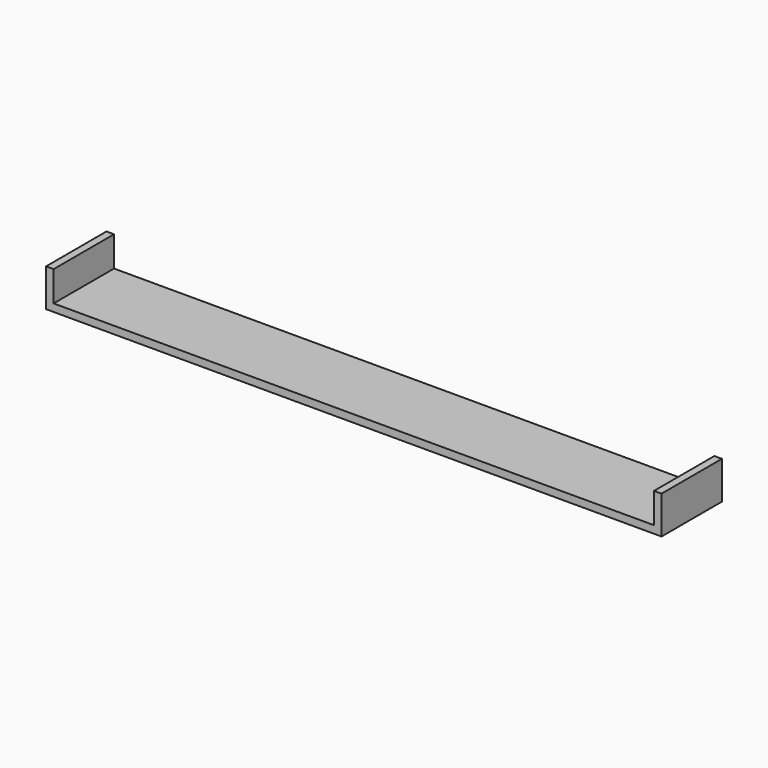
from build123d import *

# Parameters (mm, degrees)
F0_W     = 79.5
F0_H     = 10
F0_W_2   = 1
F1_DEPTH = 1
F2_DEPTH = 5


with BuildPart() as f1:
    # F0 (on Top) → F1 (new body)
    with BuildSketch(Plane.XY):
        with Locations((-39.75, 5)):
            Rectangle(F0_W, F0_H)
        with Locations((0.5, 5)):
            Rectangle(F0_W_2, F0_H)
        with Locations((-80, 5)):
            Rectangle(F0_W_2, F0_H)
    extrude(amount=F1_DEPTH)

    # F0 (on Top) → F2 (join)
    with BuildSketch(Plane.XY):
        with Locations((-80, 5)):
            Rectangle(F0_W_2, F0_H)
        with Locations((0.5, 5)):
            Rectangle(F0_W_2, F0_H)
    extrude(amount=F2_DEPTH)


solid = f1.part
